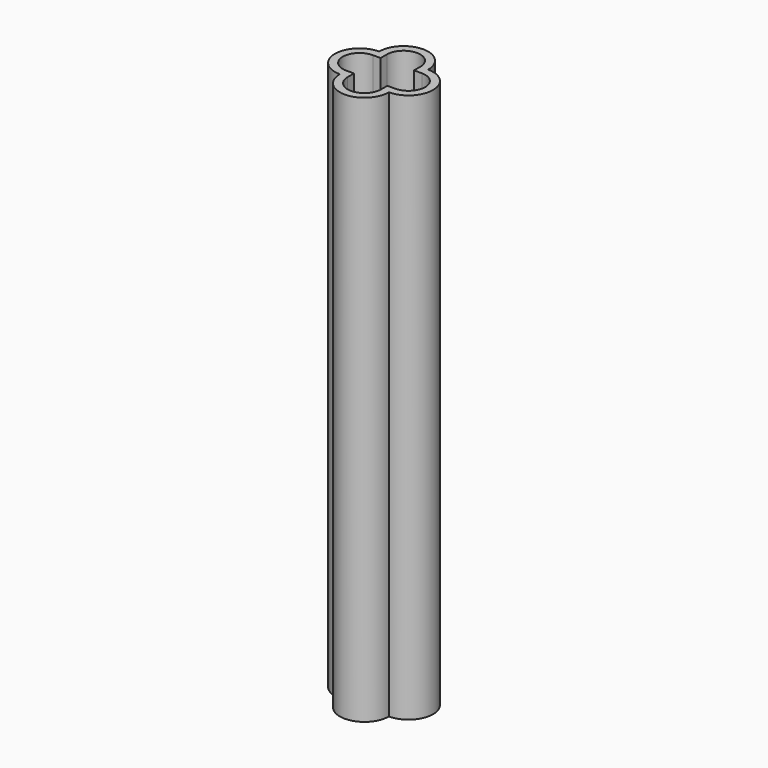
from build123d import *

# Parameters (mm, degrees)
F0_W     = 2.54
F0_H     = 2.54
F1_DEPTH = 177.8


with BuildPart() as f1:
    # F0 (on Top) → F1 (new body)
    with BuildSketch(Plane.XY):
        with Locations((-6.6675, 6.6675)):
            Rectangle(F0_W, F0_H)
        with Locations((6.6675, 6.6675)):
            Rectangle(F0_W, F0_H)
        with BuildLine():
            ThreePointArc((7.9375, 7.9375), (0, 15.875), (-7.9375, 7.9375))
            Line((-7.9375, 7.9375), (-5.3975, 7.9375))
            ThreePointArc((-5.3975, 7.9375), (0, 13.335), (5.3975, 7.9375))
            Line((5.3975, 7.9375), (7.9375, 7.9375))
        make_face()
        with BuildLine():
            Line((-5.3975, -7.9375), (-7.9375, -7.9375))
            ThreePointArc((-7.9375, -7.9375), (0, -15.875), (7.9375, -7.9375))
            Line((7.9375, -7.9375), (5.3975, -7.9375))
            ThreePointArc((5.3975, -7.9375), (0, -13.335), (-5.3975, -7.9375))
        make_face()
        with BuildLine():
            Line((-7.9375, 5.3975), (-7.9375, 7.9375))
            ThreePointArc((-7.9375, 7.9375), (-15.875, 0), (-7.9375, -7.9375))
            Line((-7.9375, -7.9375), (-7.9375, -5.3975))
            ThreePointArc((-7.9375, -5.3975), (-13.335, 0), (-7.9375, 5.3975))
        make_face()
        with BuildLine():
            ThreePointArc((7.9375, -7.9375), (15.875, 0), (7.9375, 7.9375))
            Line((7.9375, 7.9375), (7.9375, 5.3975))
            ThreePointArc((7.9375, 5.3975), (13.335, 0), (7.9375, -5.3975))
            Line((7.9375, -5.3975), (7.9375, -7.9375))
        make_face()
        with Locations((-6.6675, -6.6675)):
            Rectangle(F0_W, F0_H)
        with Locations((6.6675, -6.6675)):
            Rectangle(F0_W, F0_H)
    extrude(amount=F1_DEPTH)


solid = f1.part
